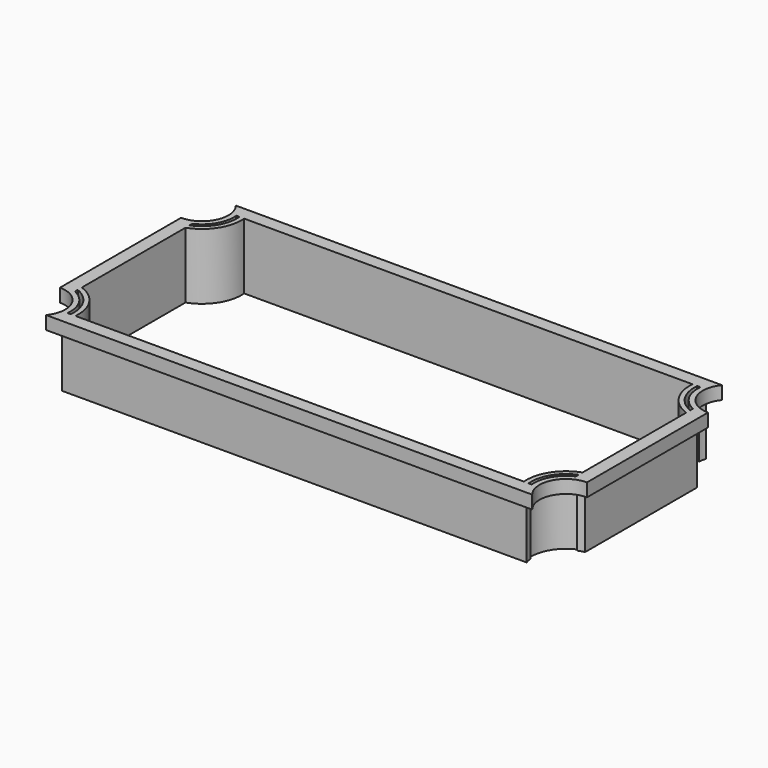
from build123d import *

# Parameters (mm, degrees)
F1_DEPTH = 3.175
F3_DEPTH = 12.7
F5_DEPTH = 25.4


with BuildPart() as f1:
    # F0 (on Top) → F1 (new body)
    with BuildSketch(Plane.XY):
        with BuildLine():
            Line((-58.565236, -28.575), (58.565236, -28.575))
            ThreePointArc((58.565236, -28.575), (57.770772, -21.846928), (63.5, -18.231118))
            Line((63.5, -18.231118), (63.5, 18.231118))
            ThreePointArc((63.5, 18.231118), (57.770772, 21.846928), (58.565236, 28.575))
            Line((58.565236, 28.575), (-58.565236, 28.575))
            ThreePointArc((-58.565236, 28.575), (-57.770772, 21.846928), (-63.5, 18.231118))
            Line((-63.5, 18.231118), (-63.5, -18.231118))
            ThreePointArc((-63.5, -18.231118), (-57.770772, -21.846928), (-58.565236, -28.575))
        make_face()
        with BuildLine():
            ThreePointArc((-54.012243, -25.4), (-55.495439, -19.421566), (-60.326977, -15.600862))
            Line((-60.326977, -15.600862), (-60.326977, 15.600862))
            ThreePointArc((-60.326977, 15.600862), (-55.495439, 19.421566), (-54.012243, 25.4))
            Line((-54.012243, 25.4), (54.012243, 25.4))
            ThreePointArc((54.012243, 25.4), (55.494871, 19.422448), (60.325, 15.601561))
            Line((60.325, 15.601561), (60.325, -15.601561))
            ThreePointArc((60.325, -15.601561), (55.494871, -19.422448), (54.012243, -25.4))
            Line((54.012243, -25.4), (-54.012243, -25.4))
        make_face(mode=Mode.SUBTRACT)
    extrude(amount=F1_DEPTH)

    # F2 (on face) → F3 (join)
    with BuildSketch(Plane(origin=(0, 0, 0), x_dir=(1, 0, 0), z_dir=(0, 0, -1))):
        with BuildLine():
            ThreePointArc((55.955421, -27.0002), (56.664977, -20.573888), (61.9252, -16.814766))
            Line((61.9252, -16.814766), (61.9252, 16.814766))
            ThreePointArc((61.9252, 16.814766), (56.664977, 20.573888), (55.955421, 27.0002))
            Line((55.955421, 27.0002), (-55.955421, 27.0002))
            ThreePointArc((-55.955421, 27.0002), (-56.665487, 20.573018), (-61.927177, 16.814364))
            Line((-61.927177, 16.814364), (-61.927177, -16.814364))
            ThreePointArc((-61.927177, -16.814364), (-56.665487, -20.573018), (-55.955421, -27.0002))
            Line((-55.955421, -27.0002), (55.955421, -27.0002))
        make_face()
        with BuildLine():
            Line((-54.012243, 25.4), (54.012243, 25.4))
            ThreePointArc((54.012243, 25.4), (55.494871, 19.422448), (60.325, 15.601561))
            Line((60.325, 15.601561), (60.325, -15.601561))
            ThreePointArc((60.325, -15.601561), (55.494871, -19.422448), (54.012243, -25.4))
            Line((54.012243, -25.4), (-54.012243, -25.4))
            ThreePointArc((-54.012243, -25.4), (-55.495439, -19.421566), (-60.326977, -15.600862))
            Line((-60.326977, -15.600862), (-60.326977, 15.600862))
            ThreePointArc((-60.326977, 15.600862), (-55.495439, 19.421566), (-54.012243, 25.4))
        make_face(mode=Mode.SUBTRACT)
    extrude(amount=F3_DEPTH)

    # F4 (on face) → F5 (cut)
    with BuildSketch(Plane.XY.offset(3.175)):
        with BuildLine():
            ThreePointArc((-55.926105, 25.4), (-56.876639, 20.816906), (-60.326977, 17.654086))
            Line((-60.326977, 17.654086), (-60.326977, 16.823715))
            ThreePointArc((-60.326977, 16.823715), (-56.322288, 20.255613), (-55.160073, 25.4))
            Line((-55.160073, 25.4), (-55.926105, 25.4))
        make_face()
        with BuildLine():
            ThreePointArc((55.160073, 25.4), (56.322288, 20.255613), (60.326977, 16.823715))
            Line((60.326977, 16.823715), (60.326977, 17.654086))
            ThreePointArc((60.326977, 17.654086), (56.876639, 20.816906), (55.926105, 25.4))
            Line((55.926105, 25.4), (55.160073, 25.4))
        make_face()
        with BuildLine():
            ThreePointArc((-55.160073, -25.4), (-56.322288, -20.255613), (-60.326977, -16.823715))
            Line((-60.326977, -16.823715), (-60.326977, -17.654086))
            ThreePointArc((-60.326977, -17.654086), (-56.876639, -20.816906), (-55.926105, -25.4))
            Line((-55.926105, -25.4), (-55.160073, -25.4))
        make_face()
        with BuildLine():
            Line((60.326977, -17.654086), (60.326977, -16.823715))
            ThreePointArc((60.326977, -16.823715), (56.322288, -20.255613), (55.160073, -25.4))
            Line((55.160073, -25.4), (55.926105, -25.4))
            ThreePointArc((55.926105, -25.4), (56.876639, -20.816906), (60.326977, -17.654086))
        make_face()
    extrude(amount=-F5_DEPTH, mode=Mode.SUBTRACT)


solid = f1.part
